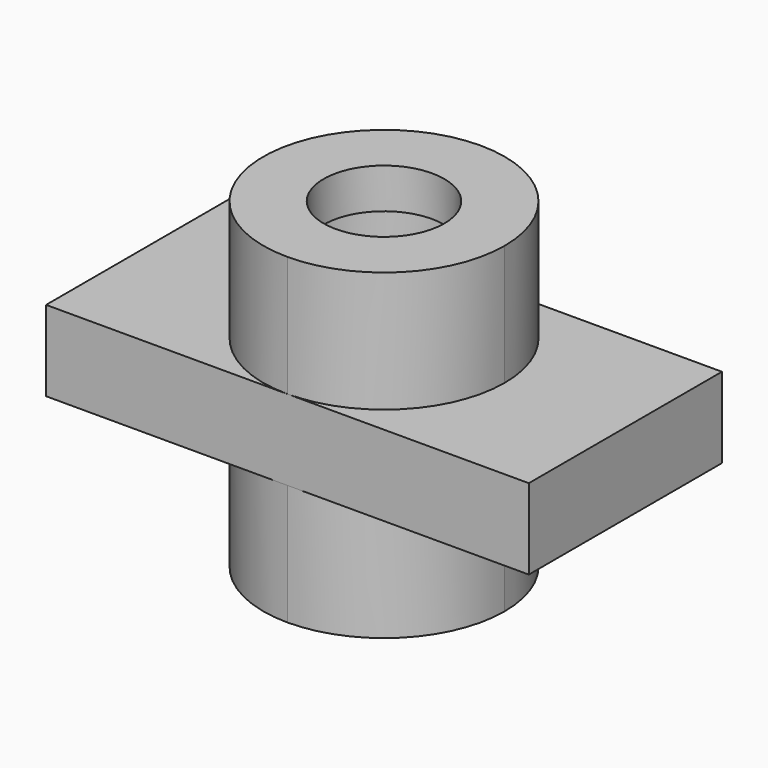
from build123d import *

# Parameters (mm, degrees)
F1_DEPTH = 25.4
F2_DEPTH = 6.35
F3_R     = 12.7
F4_DEPTH = 19.05
F5_R     = 12.7
F6_DEPTH = 12.7
F7_R     = 9.525
F8_DEPTH = 50.801


with BuildPart() as f1:
    # F0 (on Top) → F1 (new body, symmetric)
    with BuildSketch(Plane.XY):
        with BuildLine():
            ThreePointArc((19.05, 0), (13.470384, 13.470384), (0, 19.05))
            ThreePointArc((0, 19.05), (-19.05, 0), (0, -19.05))
            ThreePointArc((0, -19.05), (13.470384, -13.470384), (19.05, 0))
        make_face()
    extrude(amount=F1_DEPTH, both=True)

    # F0 (on Top) → F2 (join, symmetric)
    with BuildSketch(Plane.XY):
        with BuildLine():
            Line((0, 19.05), (-38.1, 19.05))
            Line((-38.1, 19.05), (-38.1, -19.05))
            Line((-38.1, -19.05), (0, -19.05))
            ThreePointArc((0, -19.05), (-19.05, 0), (0, 19.05))
        make_face()
        with BuildLine():
            Line((38.1, 19.05), (0, 19.05))
            ThreePointArc((0, 19.05), (13.470384, 13.470384), (19.05, 0))
            ThreePointArc((19.05, 0), (13.470384, -13.470384), (0, -19.05))
            Line((0, -19.05), (38.1, -19.05))
            Line((38.1, -19.05), (38.1, 19.05))
        make_face()
    extrude(amount=F2_DEPTH, both=True)

    # F3 (on Top) → F4 (cut)
    with BuildSketch(Plane.XY):
        Circle(F3_R)
    extrude(amount=F4_DEPTH, mode=Mode.SUBTRACT)

    # F5 (on Top) → F6 (join)
    with BuildSketch(Plane.XY):
        Circle(F5_R)
    extrude(amount=F6_DEPTH)

    # F7 (on face) → F8 (cut, through all)
    with BuildSketch(Plane.XY.offset(25.4)):
        Circle(F7_R)
    extrude(amount=-F8_DEPTH, mode=Mode.SUBTRACT)


solid = f1.part
